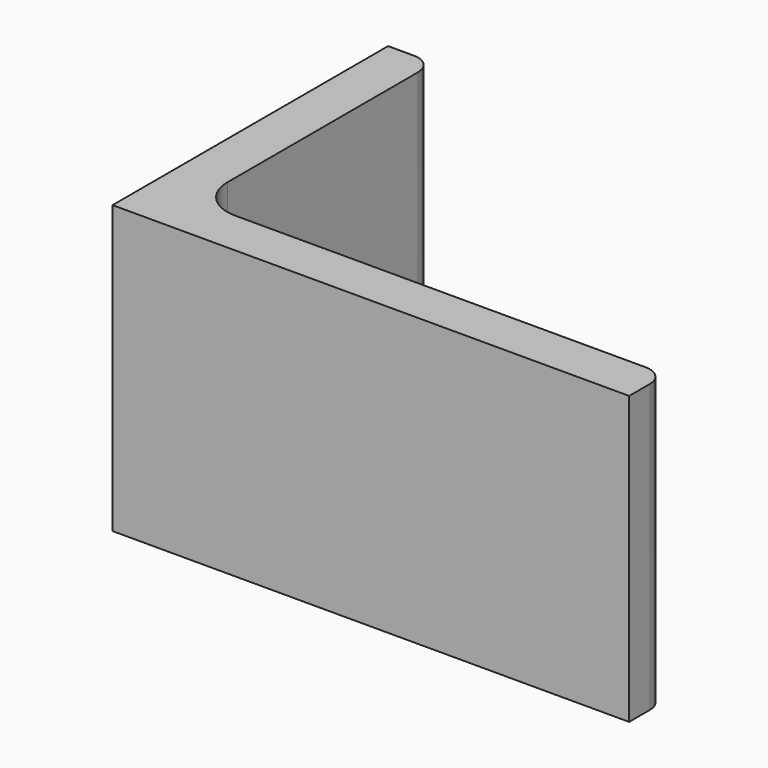
from build123d import *

# Parameters (mm, degrees)
EXTRUDE_DEPTH = 50


with BuildPart() as part:
    # Sketch → Extrude (new body)
    with BuildSketch(Plane.XY):
        with BuildLine():
            Line((0, 0), (90, 0))
            Line((90, 0), (90, 4.5))
            ThreePointArc((90, 4.5), (88.974874, 6.974874), (86.5, 8))
            Line((86.5, 8), (15, 8))
            ThreePointArc((8, 15), (10.050253, 10.050253), (15, 8))
            Line((8, 56.5), (8, 15))
            ThreePointArc((8, 56.5), (6.974874, 58.974874), (4.5, 60))
            Line((0, 60), (4.5, 60))
            Line((0, 0), (0, 60))
        make_face()
    extrude(amount=EXTRUDE_DEPTH)


solid = part.part
